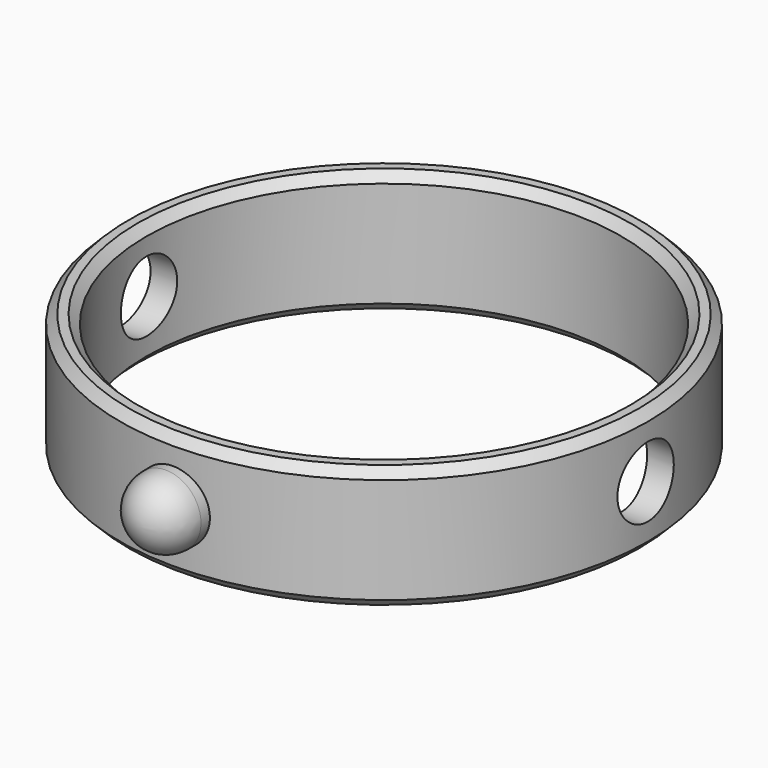
from build123d import *

# Parameters (mm, degrees)
F0_R     = 15
F0_R_2   = 13.5
F1_DEPTH = 7
F2_R     = 2
F3_DEPTH = 20
F4_SIZE  = 0.5
F6_R     = 2
F7_DEPTH = 4
F9_R     = 2


with BuildPart() as f1:
    # F0 (on Top) → F1 (new body)
    with BuildSketch(Plane.XY):
        Circle(F0_R)
        Circle(F0_R_2, mode=Mode.SUBTRACT)
    extrude(amount=F1_DEPTH)

    # F2 (on Right) → F3 (cut, symmetric)
    with BuildSketch(Plane.YZ):
        with Locations((0, 3.5)):
            Circle(F2_R)
    extrude(amount=F3_DEPTH, both=True, mode=Mode.SUBTRACT)

    # F4
    f4_edges = [f1.edges().sort_by_distance(p)[0] for p in [
        (-15, 0, 7),
        (-13.5, 0, 7),
        (-15, 0, 0),
        (-13.5, 0, 0),
    ]]
    chamfer(f4_edges, length=F4_SIZE)

    # F6 (on offset) → F7 (join)
    with BuildSketch(Plane.XZ.offset(-13.5)):
        with Locations((0, 3.5)):
            Circle(F6_R)
    extrude(amount=-F7_DEPTH)

    # F8: F1 across plane


with BuildPart() as f1_1:
    add(f1.part)
    add(f1.part.mirror(Plane.XZ))

    # F9
    f9_edges = [f1_1.edges().sort_by_distance(p)[0] for p in [
        (-2, -17.5, 3.5),
        (-2, 17.5, 3.5),
    ]]
    fillet(f9_edges, radius=F9_R)


solid = f1_1.part
